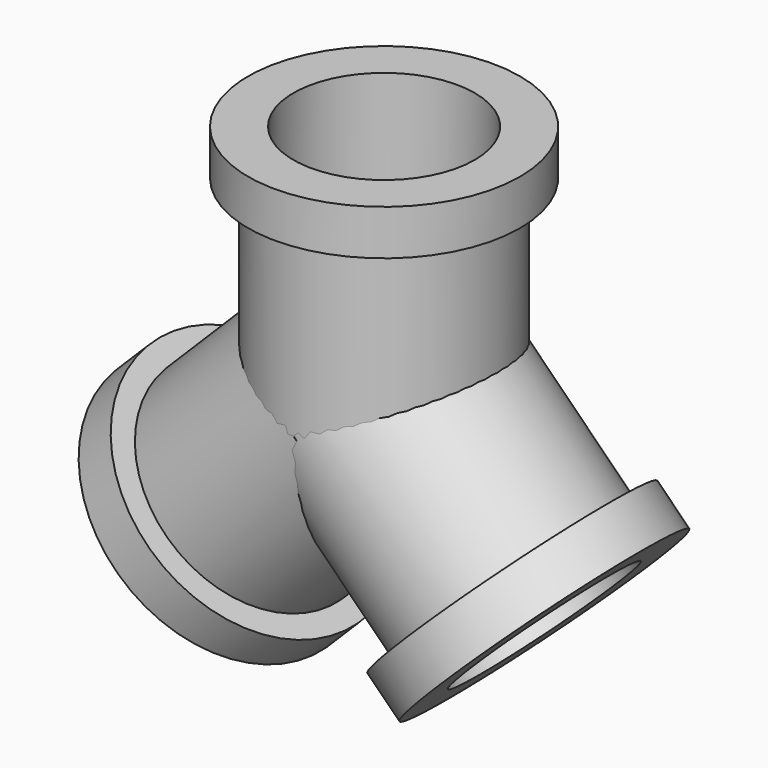
from build123d import *

# Parameters (mm, degrees)
F3_ANGLE = 135
F4_ANGLE = 225


with BuildPart() as f1:
    # F0 (on Front) → F1 (revolve)
    with BuildSketch(Plane.XZ):
        Polygon((3, 5), (2, 5), (2, 0), (2.5, 0), (2.5, 4), (3, 4), align=None)
    revolve(axis=Axis((0, 0, 12.491316), (0, 0, 1)))


with BuildPart() as f3_1:
    # F3: copy of F1
    add(f1.part.rotate(Axis((0, -10.551061, 0), (0, -1, 0)), F3_ANGLE))


with BuildPart() as f4_1:
    # F4: copy of F1
    add(f1.part.rotate(Axis((0, -10.551061, 0), (0, -1, 0)), F4_ANGLE))


solid = Compound([f1.part, f3_1.part, f4_1.part])
